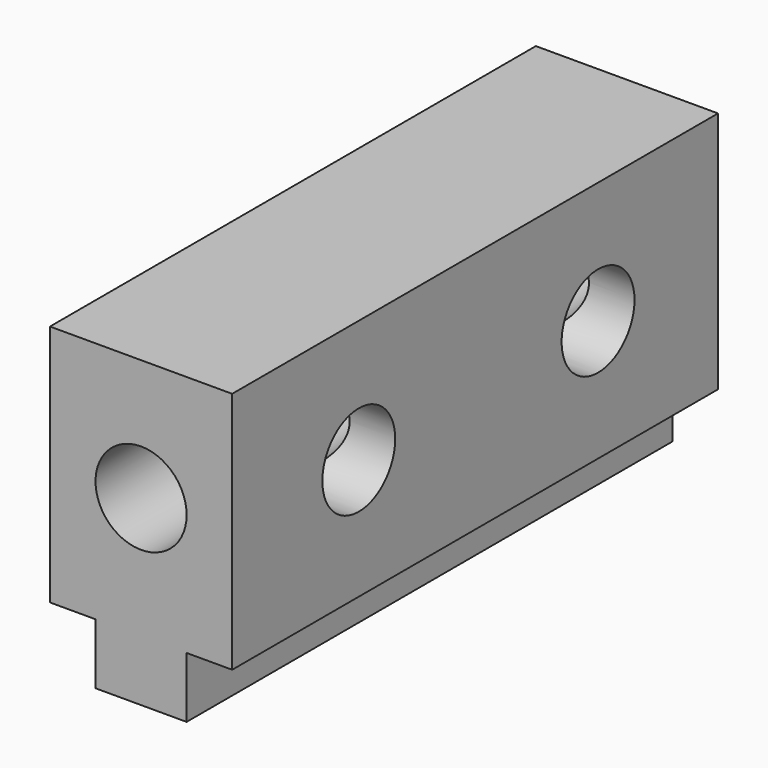
from build123d import *

# Parameters (mm, degrees)
F0_R     = 9.525
F1_DEPTH = 127
F2_R     = 9.525
F3_DEPTH = 34.798
F4_DEPTH = 22.86


with BuildPart() as f1:
    # F0 (on Front) → F1 (new body)
    with BuildSketch(Plane.XZ):
        Polygon((-10.003853, -26.378524), (9.046147, -26.378524), (9.046147, -13.678524), (18.571147, -13.678524), (18.571147, 37.121476), (-19.528853, 37.121476), (-19.528853, -13.678524), (-10.003853, -13.678524), align=None)
        with Locations((-0.478853, 11.721476)):
            Circle(F0_R, mode=Mode.SUBTRACT)
    extrude(amount=F1_DEPTH)

    # F2 (on Right) → F3 (cut)
    with BuildSketch(Plane.YZ):
        with Locations((-93.907245, 11.488916)):
            Circle(F2_R)
        with Locations((-31.356047, 11.658282)):
            Circle(F2_R)
    extrude(amount=-F3_DEPTH, mode=Mode.SUBTRACT)

    # F2 (on Right) → F4 (cut)
    with BuildSketch(Plane.YZ):
        with Locations((-93.907245, 11.488916)):
            Circle(F2_R)
        with Locations((-31.356047, 11.658282)):
            Circle(F2_R)
    extrude(amount=F4_DEPTH, mode=Mode.SUBTRACT)


solid = f1.part
